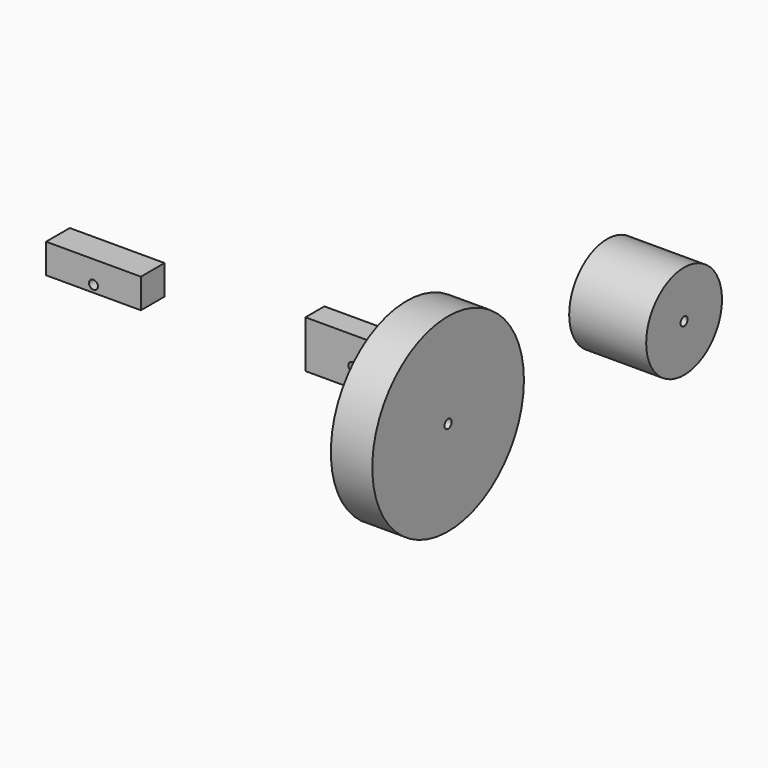
from build123d import *

# Parameters (mm, degrees)
F0_R      = 101.6
F0_R_2    = 4.7625
F1_DEPTH  = 44.45
F2_R      = 50.8
F2_R_2    = 4.7625
F3_DEPTH  = 82.55
F4_W      = 101.6
F4_H      = 25.4
F5_DEPTH  = 50.8
F6_R      = 4.7625
F7_DEPTH  = 25.4
F8_W      = 101.6
F8_H      = 31.75
F9_DEPTH  = 31.75
F10_R     = 4.7625
F11_DEPTH = 31.75


with BuildPart() as f1:
    # F0 (on Right) → F1 (new body)
    with BuildSketch(Plane.YZ):
        Circle(F0_R)
        Circle(F0_R_2, mode=Mode.SUBTRACT)
    extrude(amount=F1_DEPTH)


with BuildPart() as f3:
    # F2 (on face) → F3 (new body)
    with BuildSketch(Plane(origin=(0, 0, 0), x_dir=(0, -1, 0), z_dir=(-1, 0, 0))):
        with Locations((-268.603474, 0)):
            Circle(F2_R)
        with Locations((-268.603474, 0)):
            Circle(F2_R_2, mode=Mode.SUBTRACT)
    extrude(amount=-F3_DEPTH)


with BuildPart() as f5:
    # F4 (on Top) → F5 (new body)
    with BuildSketch(Plane.XY):
        with Locations((-57.743035, 12.7)):
            Rectangle(F4_W, F4_H)
    extrude(amount=F5_DEPTH)

    # F6 (on face) → F7 (cut, through all)
    with BuildSketch(Plane.XZ):
        with Locations((-57.743035, 20.32)):
            Circle(F6_R)
    extrude(amount=-F7_DEPTH, mode=Mode.SUBTRACT)


with BuildPart() as f9:
    # F8 (on Top) → F9 (new body)
    with BuildSketch(Plane.XY):
        with Locations((-335.765964, 15.875)):
            Rectangle(F8_W, F8_H)
    extrude(amount=F9_DEPTH)

    # F10 (on face) → F11 (cut, through all)
    with BuildSketch(Plane.XZ):
        with Locations((-335.765964, 7.62)):
            Circle(F10_R)
    extrude(amount=-F11_DEPTH, mode=Mode.SUBTRACT)


solid = Compound([f1.part, f3.part, f5.part, f9.part])
